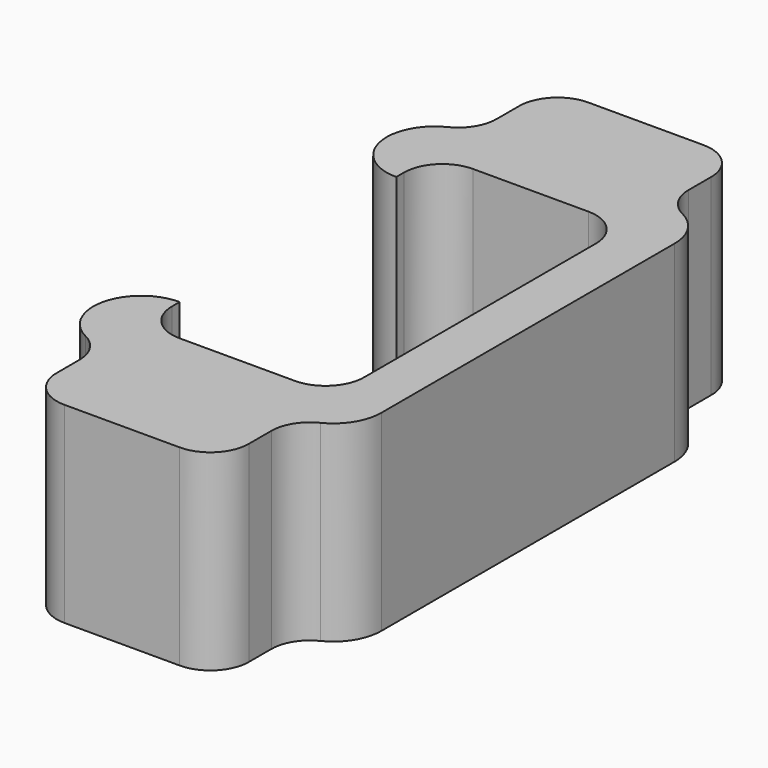
from build123d import *

# Parameters (mm, degrees)
F1_DEPTH = 25.4
F2_R     = 5.08
F3_DEPTH = 12.7
F4_DEPTH = 12.7
F5_R     = 5.08


with BuildPart() as f1:
    # F0 (on Top) → F1 (new body)
    with BuildSketch(Plane.XY):
        with BuildLine():
            Line((-24.6420629978, 11.6016305983), (-30.9920629978, 11.6016305983))
            ThreePointArc((-30.9920629978, 11.6016305983), (-29.1321910584, 7.1115025378), (-24.6420629978, 5.2516305983))
            ThreePointArc((-24.6420629978, 5.2516305983), (-20.1519349373, 7.1115025378), (-18.2920629978, 11.6016305983))
            Line((-18.2920629978, 11.6016305983), (-18.2920629978, 60.1065419614))
            ThreePointArc((-18.2920629978, 60.1065419614), (-20.1519349373, 64.596670022), (-24.6420629978, 66.4565419614))
            Line((-24.6420629978, 66.4565419614), (-50.0420629978, 66.4565419614))
            ThreePointArc((-50.0420629978, 66.4565419614), (-56.3920629978, 60.1065419614), (-50.0420629978, 53.7565419614))
            Line((-50.0420629978, 53.7565419614), (-50.0420629978, 60.1065419614))
            Line((-50.0420629978, 60.1065419614), (-24.6420629978, 60.1065419614))
            Line((-24.6420629978, 60.1065419614), (-24.6420629978, 11.6016305983))
        make_face()
        with BuildLine():
            Line((-24.6420629978, 11.6016305983), (-30.9920629978, 11.6016305983))
            ThreePointArc((-30.9920629978, 11.6016305983), (-29.1321910584, 7.1115025378), (-24.6420629978, 5.2516305983))
            ThreePointArc((-24.6420629978, 5.2516305983), (-20.1519349373, 7.1115025378), (-18.2920629978, 11.6016305983))
            Line((-18.2920629978, 11.6016305983), (-18.2920629978, 60.1065419614))
            ThreePointArc((-18.2920629978, 60.1065419614), (-20.1519349373, 64.596670022), (-24.6420629978, 66.4565419614))
            Line((-24.6420629978, 66.4565419614), (-50.0420629978, 66.4565419614))
            ThreePointArc((-50.0420629978, 66.4565419614), (-56.3920629978, 60.1065419614), (-50.0420629978, 53.7565419614))
            Line((-50.0420629978, 53.7565419614), (-50.0420629978, 60.1065419614))
            Line((-50.0420629978, 60.1065419614), (-24.6420629978, 60.1065419614))
            Line((-24.6420629978, 60.1065419614), (-24.6420629978, 11.6016305983))
        make_face()
        with BuildLine():
            Line((-24.6420629978, 11.6016305983), (-30.9920629978, 11.6016305983))
            ThreePointArc((-30.9920629978, 11.6016305983), (-29.1321910584, 7.1115025378), (-24.6420629978, 5.2516305983))
            ThreePointArc((-24.6420629978, 5.2516305983), (-20.1519349373, 7.1115025378), (-18.2920629978, 11.6016305983))
            Line((-18.2920629978, 11.6016305983), (-18.2920629978, 60.1065419614))
            ThreePointArc((-18.2920629978, 60.1065419614), (-20.1519349373, 64.596670022), (-24.6420629978, 66.4565419614))
            Line((-24.6420629978, 66.4565419614), (-50.0420629978, 66.4565419614))
            ThreePointArc((-50.0420629978, 66.4565419614), (-56.3920629978, 60.1065419614), (-50.0420629978, 53.7565419614))
            Line((-50.0420629978, 53.7565419614), (-50.0420629978, 60.1065419614))
            Line((-50.0420629978, 60.1065419614), (-24.6420629978, 60.1065419614))
            Line((-24.6420629978, 60.1065419614), (-24.6420629978, 11.6016305983))
        make_face()
        with BuildLine():
            Line((-30.9920629978, 11.6016305983), (-50.0420629978, 11.6016305983))
            Line((-50.0420629978, 11.6016305983), (-50.0420629978, 17.9516305983))
            ThreePointArc((-50.0420629978, 17.9516305983), (-56.3920629978, 11.6016305983), (-50.0420629978, 5.2516305983))
            Line((-50.0420629978, 5.2516305983), (-24.6420629978, 5.2516305983))
            ThreePointArc((-24.6420629978, 5.2516305983), (-29.1321910584, 7.1115025378), (-30.9920629978, 11.6016305983))
        make_face()
        with BuildLine():
            Line((-24.6420629978, 11.6016305983), (-30.9920629978, 11.6016305983))
            ThreePointArc((-30.9920629978, 11.6016305983), (-29.1321910584, 7.1115025378), (-24.6420629978, 5.2516305983))
            ThreePointArc((-24.6420629978, 5.2516305983), (-20.1519349373, 7.1115025378), (-18.2920629978, 11.6016305983))
            Line((-18.2920629978, 11.6016305983), (-18.2920629978, 60.1065419614))
            ThreePointArc((-18.2920629978, 60.1065419614), (-20.1519349373, 64.596670022), (-24.6420629978, 66.4565419614))
            Line((-24.6420629978, 66.4565419614), (-50.0420629978, 66.4565419614))
            ThreePointArc((-50.0420629978, 66.4565419614), (-56.3920629978, 60.1065419614), (-50.0420629978, 53.7565419614))
            Line((-50.0420629978, 53.7565419614), (-50.0420629978, 60.1065419614))
            Line((-50.0420629978, 60.1065419614), (-24.6420629978, 60.1065419614))
            Line((-24.6420629978, 60.1065419614), (-24.6420629978, 11.6016305983))
        make_face()
    extrude(amount=F1_DEPTH)

    # F2
    f2_edges = [f1.edges().sort_by_distance(p)[0] for p in [
        (-24.642063, 11.601631, 12.7),
        (-24.642063, 60.106542, 12.7),
        (-50.042063, 60.106542, 12.7),
        (-50.042063, 11.601631, 12.7),
    ]]
    fillet(f2_edges, radius=F2_R)

    # F3 (add): a face of the model
    f3_faces = [f1.faces().sort_by_distance(p)[0] for p in [
        (-37.3420629978, 66.4565419614, 12.7),
    ]]
    extrude(f3_faces, amount=F3_DEPTH)

    # F4 (add): a face of the model
    f4_faces = [f1.faces().sort_by_distance(p)[0] for p in [
        (-37.3420629978, 5.2516305983, 12.7),
    ]]
    extrude(f4_faces, amount=F4_DEPTH)

    # F5
    f5_edges = [f1.edges().sort_by_distance(p)[0] for p in [
        (-50.042063, 79.156542, 12.7),
        (-50.042063, -7.448369, 12.7),
        (-50.042063, 5.251631, 12.7),
        (-50.042063, 66.456542, 12.7),
        (-24.642063, 66.456542, 12.7),
        (-24.642063, 79.156542, 12.7),
        (-24.642063, -7.448369, 12.7),
        (-24.642063, 5.251631, 12.7),
    ]]
    fillet(f5_edges, radius=F5_R)


solid = f1.part
